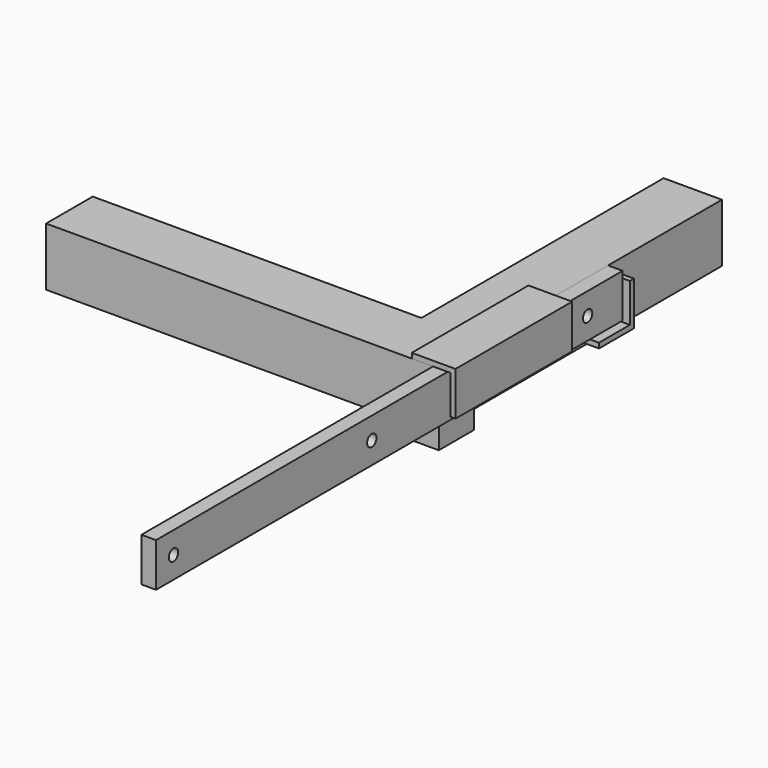
from build123d import *

# Parameters (mm, degrees)
F1_DEPTH  = 40
F2_W      = 250
F2_H      = 30
F2_R      = 4
F2_W_2    = 150
F3_DEPTH  = 10
F5_DEPTH  = 100
F7_DEPTH  = 15
F10_DEPTH = 15


with BuildPart() as f1:
    # F0 (on Top) → F1 (new body)
    with BuildSketch(Plane.XY):
        Polygon((974.6156334877, 40), (974.6156334877, 0), (1240, 0), (1240, 247.6407289505), (1200, 247.6407289505), (1200, 40), align=None)
    extrude(amount=F1_DEPTH)


with BuildPart() as f3:
    # F2 (on face) → F3 (new body)
    with BuildSketch(Plane.YZ.offset(1240)):
        with Locations((-125, 25)):
            Rectangle(F2_W, F2_H)
        with Locations((-235, 25)):
            Circle(F2_R, mode=Mode.SUBTRACT)
        with Locations((-65, 25)):
            Circle(F2_R, mode=Mode.SUBTRACT)
        with Locations((75, 25)):
            Rectangle(F2_W_2, F2_H)
        with Locations((70, 25)):
            Circle(F2_R, mode=Mode.SUBTRACT)
        with Locations((120, 25)):
            Circle(F2_R, mode=Mode.SUBTRACT)
    extrude(amount=F3_DEPTH)


with BuildPart() as f5:
    # F4 (on face) → F5 (new body)
    with BuildSketch(Plane.XZ):
        Polygon((1240, 40), (1252, 40), (1251.9164218903, 13.5), (1255.4164218903, 13.5), (1255.4164218903, 43.5), (1225.4164218903, 43.5), (1225.4164218903, 40), align=None)
    extrude(amount=-F5_DEPTH)


with BuildPart() as f7:
    # F6 (on face) → F7 (new body)
    with BuildSketch(Plane.YZ.offset(1240)):
        Polygon((150, 35.5), (150, 10), (150, 9), (123.5, 9), (123.5, 5.5), (153.5, 5.5), (153.5, 35.5), align=None)
    extrude(amount=F7_DEPTH)


with BuildPart() as f10:
    # F9 (on offset) → F10 (new body)
    with BuildSketch(Plane(origin=(0, 0, 8), x_dir=(1, 0, 0), z_dir=(0, 0, -1))):
        Polygon((1243.25, -26.5), (1246.75, -26.5), (1246.75, 3.5), (1216.75, 3.5), (1216.75, 0), (1243.25, 0), align=None)
    extrude(amount=F10_DEPTH)


solid = Compound([f1.part, f3.part, f5.part, f7.part, f10.part])
